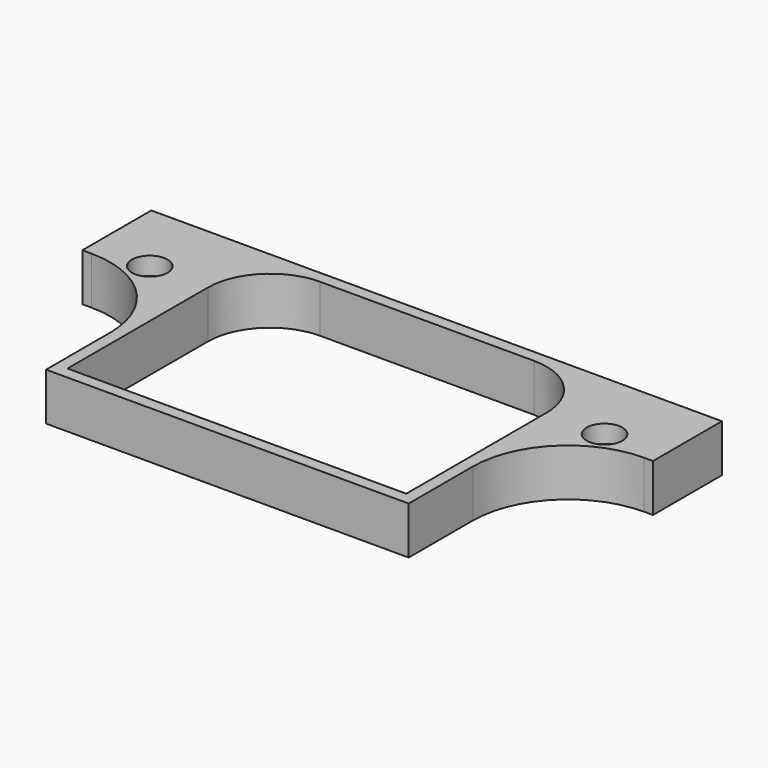
from build123d import *

# Parameters (mm, degrees)
F1_DEPTH = 12.7
F2_R     = 4.7625
F2_R_2   = 2.38125
F3_DEPTH = 4.7625


with BuildPart() as f1:
    # F0 (on Top) → F1 (new body)
    with BuildSketch(Plane.XY):
        with BuildLine():
            ThreePointArc((-16.66875, 63.5), (-4.8821638411, 58.6178361589), (0, 46.83125))
            Line((0, 46.83125), (13.096875, 46.83125))
            ThreePointArc((13.096875, 46.83125), (15.478125, 49.2125), (17.859375, 46.83125))
            Line((17.859375, 46.83125), (30.95625, 46.83125))
            Line((30.95625, 46.83125), (30.95625, 66.675))
            Line((30.95625, 66.675), (-121.44375, 66.675))
            Line((-121.44375, 66.675), (-121.44375, 46.83125))
            Line((-121.44375, 46.83125), (-108.346875, 46.83125))
            ThreePointArc((-108.346875, 46.83125), (-105.965625, 49.2125), (-103.584375, 46.83125))
            Line((-103.584375, 46.83125), (-90.4875, 46.83125))
            ThreePointArc((-90.4875, 46.83125), (-85.6053361589, 58.6178361589), (-73.81875, 63.5))
            Line((-73.81875, 63.5), (-16.66875, 63.5))
        make_face()
        with BuildLine():
            Line((0, 46.83125), (0, 0))
            Line((0, 0), (-90.4875, 0))
            Line((-90.4875, 0), (-90.4875, 46.83125))
            Line((-90.4875, 46.83125), (-103.584375, 46.83125))
            ThreePointArc((-103.584375, 46.83125), (-105.965625, 44.45), (-108.346875, 46.83125))
            Line((-108.346875, 46.83125), (-121.44375, 46.83125))
            Line((-121.44375, 46.83125), (-121.44375, 43.65625))
            Line((-121.44375, 43.65625), (-119.0625, 43.65625))
            ThreePointArc((-119.0625, 43.65625), (-101.1019877579, 36.2167622421), (-93.6625, 18.25625))
            Line((-93.6625, 18.25625), (-93.6625, -3.175))
            Line((-93.6625, -3.175), (3.175, -3.175))
            Line((3.175, -3.175), (3.175, 18.25625))
            ThreePointArc((3.175, 18.25625), (10.6144877579, 36.2167622421), (28.575, 43.65625))
            Line((28.575, 43.65625), (30.95625, 43.65625))
            Line((30.95625, 43.65625), (30.95625, 46.83125))
            Line((30.95625, 46.83125), (17.859375, 46.83125))
            ThreePointArc((17.859375, 46.83125), (15.478125, 44.45), (13.096875, 46.83125))
            Line((13.096875, 46.83125), (0, 46.83125))
        make_face()
    extrude(amount=F1_DEPTH)

    # F2 (on face) → F3 (cut)
    with BuildSketch(Plane.XY.offset(12.7)):
        with Locations((-105.965625, 46.83125)):
            Circle(F2_R)
        with Locations((-105.965625, 46.83125)):
            Circle(F2_R_2, mode=Mode.SUBTRACT)
        with Locations((15.478125, 46.83125)):
            Circle(F2_R)
        with Locations((15.478125, 46.83125)):
            Circle(F2_R_2, mode=Mode.SUBTRACT)
        with Locations((-105.965625, 46.83125)):
            Circle(F2_R)
        with Locations((-105.965625, 46.83125)):
            Circle(F2_R_2, mode=Mode.SUBTRACT)
        with Locations((15.478125, 46.83125)):
            Circle(F2_R)
        with Locations((15.478125, 46.83125)):
            Circle(F2_R_2, mode=Mode.SUBTRACT)
    extrude(amount=-F3_DEPTH, mode=Mode.SUBTRACT)


solid = f1.part
